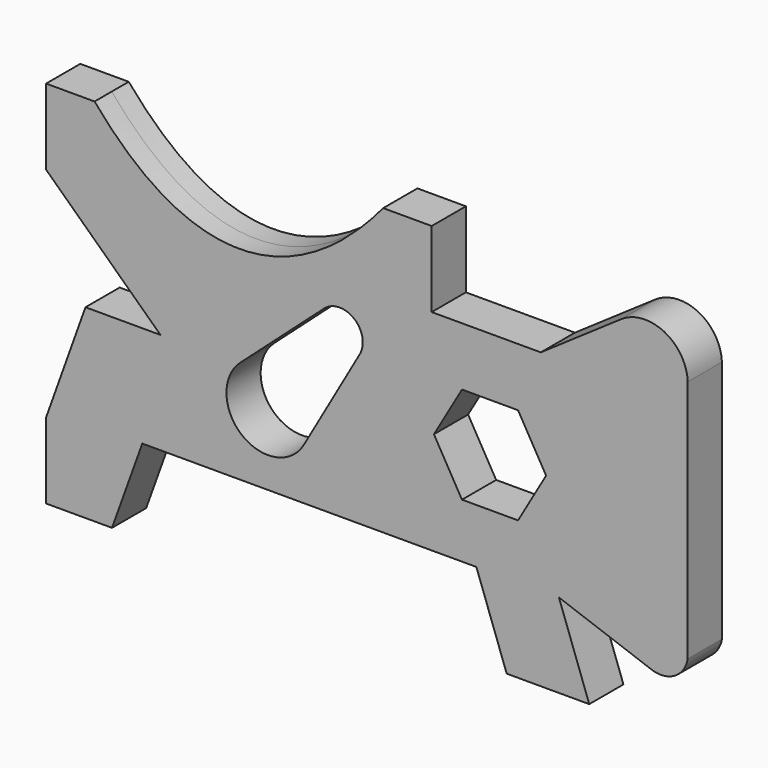
from build123d import *

# Parameters (mm, degrees)
F1_DEPTH = 12.7


with BuildPart() as f1:
    # F0 (on Front) → F1 (new body, symmetric)
    with BuildSketch(Plane.XZ):
        with BuildLine():
            Line((-176.997229, 105.563663), (-205.819726, 105.563663))
            Line((-205.819726, 105.563663), (-205.819726, 60.528509))
            Line((-205.819726, 60.528509), (-137.816653, -3.871753))
            Line((-137.816653, -3.871753), (-182.401448, -3.871753))
            Line((-182.401448, -3.871753), (-205.819726, -69.172718))
            Line((-205.819726, -69.172718), (-205.819726, -114.207871))
            Line((-205.819726, -114.207871), (-166.639149, -114.207871))
            Line((-166.639149, -114.207871), (-148.625091, -64.218849))
            Line((-148.625091, -64.218849), (49.979918, -64.218849))
            Line((49.979918, -64.218849), (67.993976, -114.207871))
            Line((67.993976, -114.207871), (117.08229, -114.207871))
            Line((117.08229, -114.207871), (99.068217, -64.218849))
            Line((99.068217, -64.218849), (154.192241, -84.083358))
            ThreePointArc((154.192241, -84.083358), (167.887245, -82.795209), (175.627977, -71.424477))
            Line((175.627977, -71.424477), (175.627977, 73.588699))
            ThreePointArc((175.627977, 73.588699), (161.662528, 95.19647), (135.997042, 93.404166))
            Line((135.997042, 93.404166), (88.259786, 60.528509))
            Line((88.259786, 60.528509), (23.409177, 60.528509))
            Line((23.409177, 60.528509), (23.409177, 105.563663))
            Line((23.409177, 105.563663), (-5.413321, 105.563663))
            add(Edge.make_bspline(
                [(-176.997229, 105.563663), (-121.604003, 39.812341), (-59.905849, 40.262692), (-5.413321, 105.563663)],
                knots=[0, 0, 0, 0, 171.583909, 171.583909, 171.583909, 171.583909], degree=3))
        make_face()
        with BuildLine():
            Line((-90.416818, -2.990881), (-40.540732, 41.613746))
            ThreePointArc((-40.540732, 41.613746), (-22.680003, 42.058152), (-19.374214, 24.500392))
            Line((-19.374214, 24.500392), (-52.520523, -33.568025))
            ThreePointArc((-52.520523, -33.568025), (-89.42647, -40.535752), (-90.416818, -2.990881))
        make_face(mode=Mode.SUBTRACT)
        Polygon((24.760231, -2.97105), (41.423231, 25.851445), (74.749246, 25.851445), (91.412247, -2.97105), (74.749246, -31.793546), (41.423231, -31.793546), align=None, mode=Mode.SUBTRACT)
    extrude(amount=F1_DEPTH, both=True)


solid = f1.part
